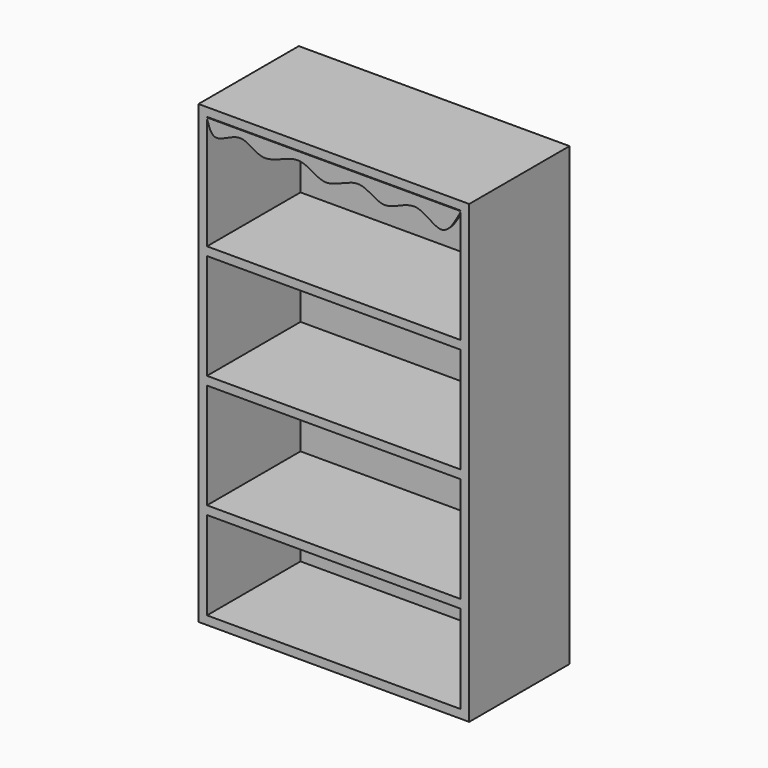
from build123d import *

# Parameters (mm, degrees)
F0_W     = 603.25
F0_H     = 1016
F1_DEPTH = 279.4
F2_T     = -19.05
F3_W     = 565.15
F3_H     = 19.05
F4_DEPTH = 260.35
F7_DEPTH = 6.35


with BuildPart() as f1:
    # F0 (on Front) → F1 (new body)
    with BuildSketch(Plane.XZ):
        with Locations((301.625, 508)):
            Rectangle(F0_W, F0_H)
    extrude(amount=F1_DEPTH)

    # F2
    f2_openings = [f1.faces().sort_by_distance(p)[0] for p in [
        (301.625, -279.4, 508),
    ]]
    offset(amount=F2_T, openings=f2_openings)

    # F3 (on face) → F4 (join)
    with BuildSketch(Plane.XZ.offset(19.05)):
        with Locations((301.625, 733.425)):
            Rectangle(F3_W, F3_H)
        with Locations((301.625, 479.425)):
            Rectangle(F3_W, F3_H)
        with Locations((301.625, 225.425)):
            Rectangle(F3_W, F3_H)
    extrude(amount=F4_DEPTH)

    # F6 (on offset) → F7 (join)
    with BuildSketch(Plane.XZ.offset(279.4)):
        with BuildLine():
            Line((584.9241614342, 995.6918358803), (18.3840543032, 995.6918358803))
            add(Edge.make_bspline(
                [(18.3840543032, 995.6918358803), (22.9446869058, 980.0916117955), (33.0624707567, 945.4824448069), (97.236484595, 998.1157284181), (142.859921271, 937.2559631762), (226.45959666, 999.1572020464), (280.4673534763, 933.1713283742), (358.7241351901, 995.9649768258), (412.6649530689, 931.9899288239), (484.1480210672, 993.7111371243), (544.9316035358, 921.3338875252), (571.4668463845, 970.670722202), (584.9241614342, 995.6918358803)],
                knots=[0, 0, 0, 0, 0.0781743177, 0.1734300738, 0.2677871456, 0.3810262648, 0.4814634402, 0.5917262865, 0.6905457485, 0.7972387084, 0.8971698659, 1, 1, 1, 1], degree=3))
        make_face()
    extrude(amount=-F7_DEPTH)


solid = f1.part
